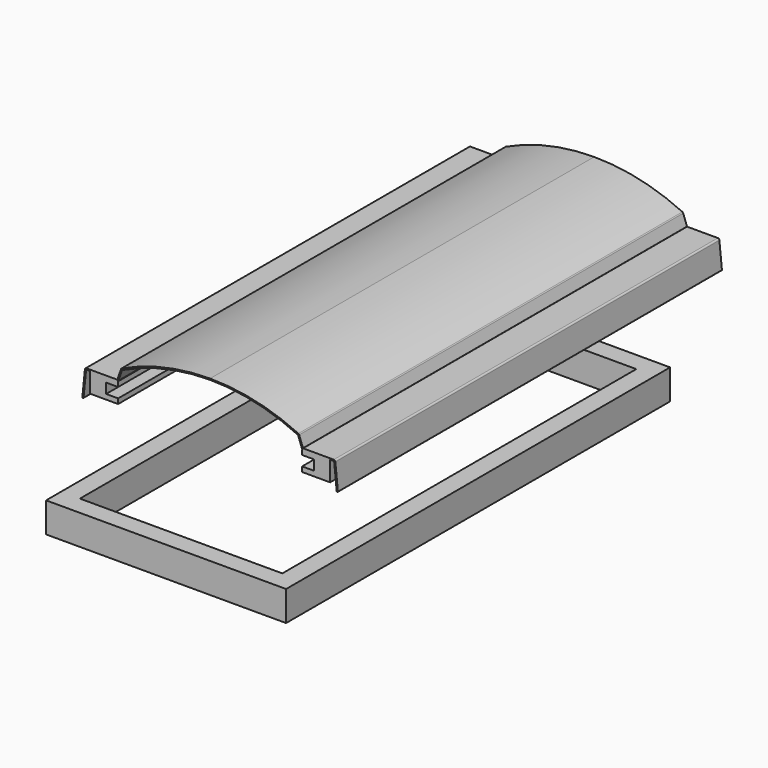
from build123d import *

# Parameters (mm, degrees)
F0_W     = 600
F0_H     = 1200
F0_W_2   = 506
F0_H_2   = 1106
F1_DEPTH = 75
F3_DEPTH = 1200


with BuildPart() as f1:
    # F0 (on Top) → F1 (new body)
    with BuildSketch(Plane.XY):
        with Locations((261.511236, 559.420215)):
            Rectangle(F0_W, F0_H)
        with Locations((261.511236, 559.420215)):
            Rectangle(F0_W_2, F0_H_2, mode=Mode.SUBTRACT)
    extrude(amount=F1_DEPTH)


with BuildPart() as f3:
    # F2 (on Front) → F3 (new body)
    with BuildSketch(Plane.XZ):
        Polygon((39.171193, 368.415314), (39.171193, 318.415314), (109.171193, 318.415314), (109.171193, 330.915314), (79.171193, 330.915314), (79.171193, 355.915314), (109.171193, 355.915314), (109.171193, 368.415314), (106.352316, 368.415314), align=None)
        Polygon((639.171193, 368.415314), (571.99007, 368.415314), (569.171193, 368.415314), (569.171193, 355.915314), (599.171193, 355.915314), (599.171193, 330.915314), (569.171193, 330.915314), (569.171193, 318.415314), (639.171193, 318.415314), align=None)
        with BuildLine():
            Line((339.171193, 449.415314), (339.171193, 446.415314))
            ThreePointArc((339.171193, 446.415314), (451.775363, 433.80357), (558.799434, 396.593314))
            ThreePointArc((558.799434, 396.593314), (559.110554, 396.360921), (559.309687, 396.027532))
            Line((559.309687, 396.027532), (568.223102, 371.069968))
            ThreePointArc((568.223102, 371.069968), (569.685876, 369.145652), (571.99007, 368.415314))
            Line((571.99007, 368.415314), (639.171193, 368.415314))
            Line((639.171193, 368.415314), (648.266206, 368.415314))
            ThreePointArc((648.266206, 368.415314), (648.937211, 368.156766), (649.261243, 367.514818))
            Line((649.261243, 367.514818), (655.581144, 304.31581))
            ThreePointArc((655.581144, 304.31581), (655.905175, 303.673861), (656.576181, 303.415314))
            Line((656.576181, 303.415314), (657.581168, 303.415314))
            ThreePointArc((657.581168, 303.415314), (658.322621, 303.744309), (658.576205, 304.514818))
            Line((658.576205, 304.514818), (652.246354, 367.813329))
            ThreePointArc((652.246354, 367.813329), (650.950227, 370.381124), (648.266206, 371.415314))
            Line((648.266206, 371.415314), (571.99007, 371.415314))
            ThreePointArc((571.99007, 371.415314), (571.414022, 371.597898), (571.048328, 372.078978))
            Line((571.048328, 372.078978), (561.84351, 397.852467))
            ThreePointArc((561.84351, 397.852467), (561.03823, 399.195691), (559.778937, 400.12677))
            ThreePointArc((559.778937, 400.12677), (452.194573, 436.943128), (339.171193, 449.415314))
        make_face()
        with BuildLine():
            Line((30.076181, 368.415314), (39.171193, 368.415314))
            Line((39.171193, 368.415314), (106.352316, 368.415314))
            ThreePointArc((106.352316, 368.415314), (108.65651, 369.145652), (110.119284, 371.069968))
            Line((110.119284, 371.069968), (119.0327, 396.027532))
            ThreePointArc((119.0327, 396.027532), (119.231833, 396.360921), (119.542952, 396.593314))
            ThreePointArc((119.542952, 396.593314), (226.567024, 433.80357), (339.171193, 446.415314))
            Line((339.171193, 446.415314), (339.171193, 449.415314))
            ThreePointArc((339.171193, 449.415314), (226.147814, 436.943128), (118.563449, 400.12677))
            ThreePointArc((118.563449, 400.12677), (117.304156, 399.195691), (116.498876, 397.852467))
            Line((116.498876, 397.852467), (107.294058, 372.078978))
            ThreePointArc((107.294058, 372.078978), (106.928365, 371.597898), (106.352316, 371.415314))
            Line((106.352316, 371.415314), (30.076181, 371.415314))
            ThreePointArc((30.076181, 371.415314), (27.392159, 370.381124), (26.096032, 367.813329))
            Line((26.096032, 367.813329), (19.766181, 304.514818))
            ThreePointArc((19.766181, 304.514818), (20.019766, 303.744309), (20.761218, 303.415314))
            Line((20.761218, 303.415314), (21.766206, 303.415314))
            ThreePointArc((21.766206, 303.415314), (22.437211, 303.673861), (22.761243, 304.31581))
            Line((22.761243, 304.31581), (29.081144, 367.514818))
            ThreePointArc((29.081144, 367.514818), (29.405175, 368.156766), (30.076181, 368.415314))
        make_face()
    extrude(amount=-F3_DEPTH)


solid = Compound([f1.part, f3.part])
